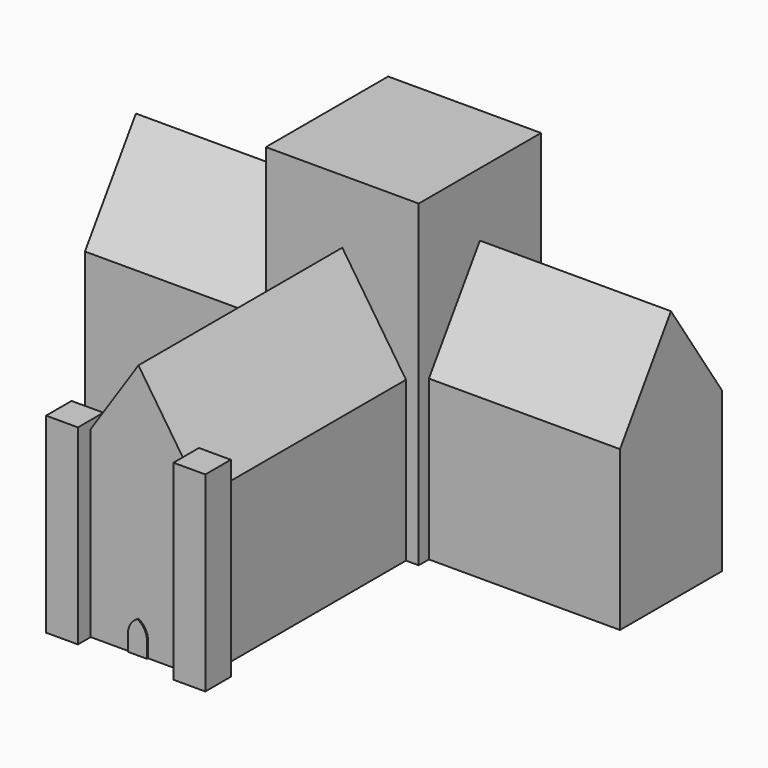
from build123d import *

# Parameters (mm, degrees)
F1_DEPTH  = 50.8
F2_W      = 15.24
F2_H      = 30.48
F3_DEPTH  = 63.5
F4_W      = 15.24
F4_H      = 30.48
F5_DEPTH  = 63.5
F7_DEPTH  = 38.1
F9_DEPTH  = 38.1
F11_DEPTH = 38.1
F10_W     = 3.175
F10_H     = 3.175
F12_DEPTH = 38.1
F15_DEPTH = 0.254


with BuildPart() as f1:
    # F0 (on Front) → F1 (new body)
    with BuildSketch(Plane.XZ):
        Polygon((-12.7, 0), (0, 0), (12.7, 0), (12.7, 31.75), (0, 50.8), (-12.7, 31.75), align=None)
        Polygon((-12.7, 0), (0, 0), (12.7, 0), (12.7, 31.75), (0, 50.8), (-12.7, 31.75), align=None)
    extrude(amount=F1_DEPTH)

    # F2 (on Top) → F3 (join)
    with BuildSketch(Plane.XY):
        with Locations((-7.62, 15.24)):
            Rectangle(F2_W, F2_H)
    extrude(amount=F3_DEPTH)

    # F4 (on Top) → F5 (join)
    with BuildSketch(Plane.XY):
        with Locations((7.62, 15.24)):
            Rectangle(F4_W, F4_H)
    extrude(amount=F5_DEPTH)

    # F6 (on face) → F7 (join)
    with BuildSketch(Plane.YZ.offset(15.24)):
        Polygon((2.54, 0), (15.24, 0), (27.94, 0), (27.94, 31.75), (15.24, 50.8), (2.54, 31.75), align=None)
        Polygon((2.54, 0), (15.24, 0), (27.94, 0), (27.94, 31.75), (15.24, 50.8), (2.54, 31.75), align=None)
    extrude(amount=F7_DEPTH)

    # F8 (on face) → F9 (join)
    with BuildSketch(Plane(origin=(-15.24, 0, 0), x_dir=(0, -1, 0), z_dir=(-1, 0, 0))):
        Polygon((-27.94, 0), (-15.24, 0), (-2.54, 0), (-2.54, 31.75), (-15.24, 50.8), (-27.94, 31.75), align=None)
    extrude(amount=F9_DEPTH)

    # F10 (on face) → F11 (join)
    with BuildSketch(Plane(origin=(0, 0, 0), x_dir=(1, 0, 0), z_dir=(0, 0, -1))):
        Polygon((9.525, 50.8), (12.7, 50.8), (15.875, 50.8), (15.875, 53.975), (9.525, 53.975), align=None)
    extrude(amount=-F11_DEPTH)

    # F10 (on face) → F12 (join)
    with BuildSketch(Plane(origin=(0, 0, 0), x_dir=(1, 0, 0), z_dir=(0, 0, -1))):
        Polygon((9.525, 50.8), (12.7, 50.8), (15.875, 50.8), (15.875, 53.975), (9.525, 53.975), align=None)
        with Locations((14.2875, 49.2125)):
            Rectangle(F10_W, F10_H)
        with Locations((11.1125, 49.2125)):
            Rectangle(F10_W, F10_H)
        with Locations((-14.2875, 49.2125)):
            Rectangle(F10_W, F10_H)
        with Locations((-11.1125, 49.2125)):
            Rectangle(F10_W, F10_H)
        Polygon((-15.875, 50.8), (-12.7, 50.8), (-9.525, 50.8), (-9.525, 53.975), (-15.875, 53.975), align=None)
    extrude(amount=-F12_DEPTH)

    # F13 (on face) → F15 (join)
    with BuildSketch(Plane.XZ.offset(50.8)):
        with BuildLine():
            Line((-1.905, 0), (0, 0))
            Line((0, 0), (0, 6.35))
            ThreePointArc((0, 6.35), (-1.392212, 5.026327), (-1.905, 3.175))
            Line((-1.905, 3.175), (-1.905, 0))
        make_face()
        with BuildLine():
            Line((0, 6.35), (0, 0))
            Line((0, 0), (1.905, 0))
            Line((1.905, 0), (1.905, 3.175))
            ThreePointArc((1.905, 3.175), (1.392212, 5.026327), (0, 6.35))
        make_face()
    extrude(amount=F15_DEPTH)


solid = f1.part
